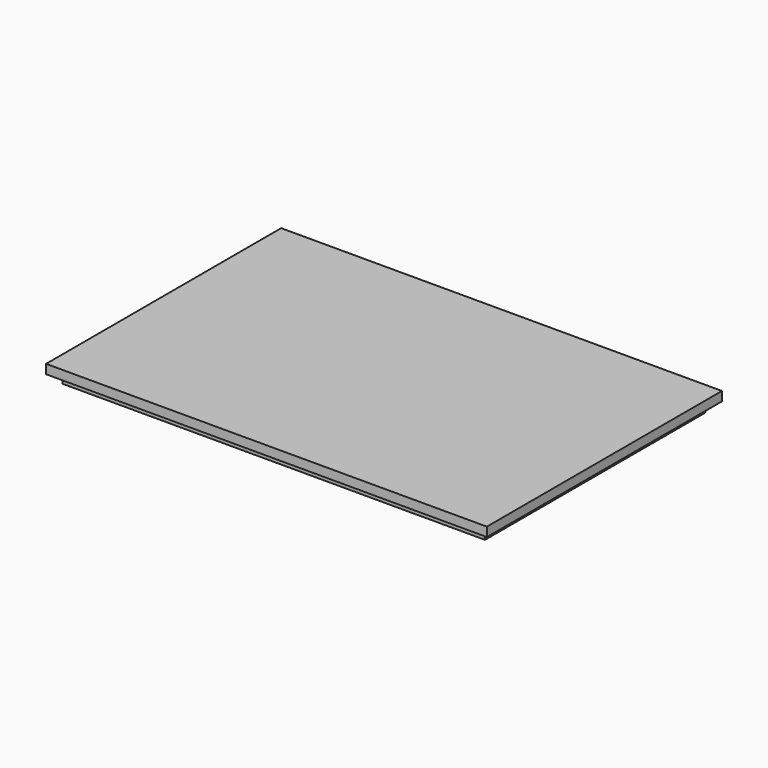
from build123d import *

# Parameters (mm, degrees)
F0_W     = 120
F0_H     = 80
F0_W_2   = 115
F0_H_2   = 75
F1_DEPTH = 2.5
F2_DEPTH = 5


with BuildPart() as f1:
    # F0 (on Top) → F1 (new body)
    with BuildSketch(Plane.XY):
        with Locations((-25.539648, 7.861398)):
            Rectangle(F0_W, F0_H)
        with Locations((-25.539648, 7.861398)):
            Rectangle(F0_W_2, F0_H_2, mode=Mode.SUBTRACT)
    extrude(amount=-F1_DEPTH)

    # F0 (on Top) → F2 (join)
    with BuildSketch(Plane.XY):
        with Locations((-25.539648, 7.861398)):
            Rectangle(F0_W_2, F0_H_2)
    extrude(amount=-F2_DEPTH)


solid = f1.part
